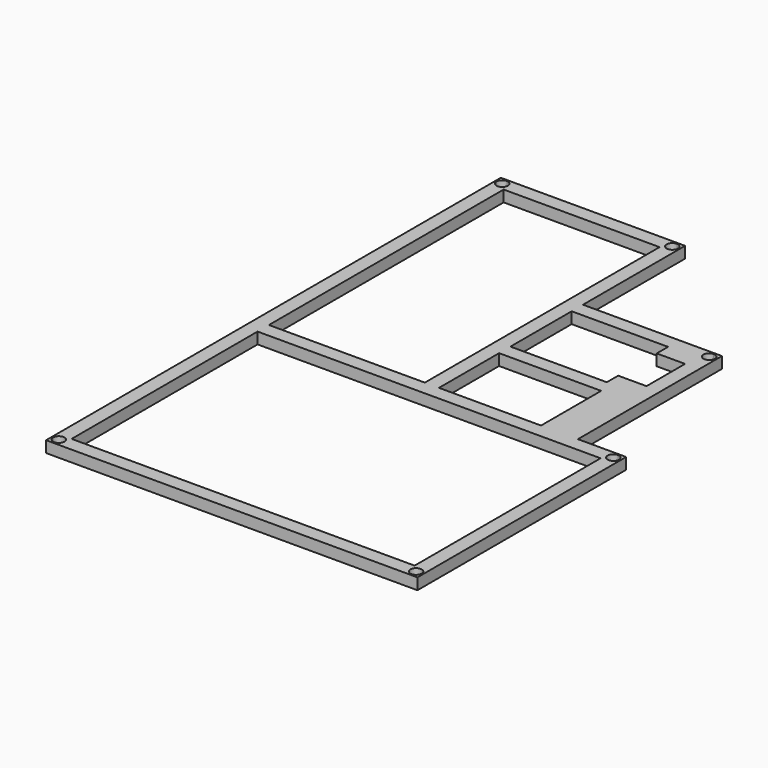
from build123d import *

# Parameters (mm, degrees)
F0_W     = 5
F0_H     = 5
F1_DEPTH = 4


with BuildPart() as f1:
    # F0 (on Top) → F1 (new body)
    with BuildSketch(Plane.XY):
        with BuildLine():
            Line((82.7990943193, -150.3260023594), (82.7990943193, -150.8260023594))
            Line((82.7990943193, -150.8260023594), (85.2990943193, -150.8260023594))
            Line((85.2990943193, -150.8260023594), (85.2990943193, -148.3260023594))
            Line((85.2990943193, -148.3260023594), (84.7990943193, -148.3260023594))
            ThreePointArc((84.7990943193, -148.3260023594), (84.2133078817, -149.7402159218), (82.7990943193, -150.3260023594))
        make_face()
        with BuildLine():
            Line((-45.2009056807, -148.3260023594), (-45.7009056807, -148.3260023594))
            Line((-45.7009056807, -148.3260023594), (-45.7009056807, -150.8260023594))
            Line((-45.7009056807, -150.8260023594), (-43.2009056807, -150.8260023594))
            Line((-43.2009056807, -150.8260023594), (-43.2009056807, -150.3260023594))
            ThreePointArc((-43.2009056807, -150.3260023594), (-44.615119243, -149.7402159218), (-45.2009056807, -148.3260023594))
        make_face()
        with BuildLine():
            Line((-43.2009056807, 49.1739976406), (-43.2009056807, 49.6739976406))
            Line((-43.2009056807, 49.6739976406), (-45.7009056807, 49.6739976406))
            Line((-45.7009056807, 49.6739976406), (-45.7009056807, 47.1739976406))
            Line((-45.7009056807, 47.1739976406), (-45.2009056807, 47.1739976406))
            ThreePointArc((-45.2009056807, 47.1739976406), (-44.615119243, 48.588211203), (-43.2009056807, 49.1739976406))
        make_face()
        with BuildLine():
            Line((85.2990943193, -61.3260023594), (85.2990943193, -58.8260023594))
            Line((85.2990943193, -58.8260023594), (82.7990943193, -58.8260023594))
            Line((82.7990943193, -58.8260023594), (82.7990943193, -59.3260023594))
            ThreePointArc((82.7990943193, -59.3260023594), (84.2133078817, -59.911788797), (84.7990943193, -61.3260023594))
            Line((84.7990943193, -61.3260023594), (85.2990943193, -61.3260023594))
        make_face()
        with BuildLine():
            Line((19.2990943193, 49.6739976406), (16.7990943193, 49.6739976406))
            Line((16.7990943193, 49.6739976406), (16.7990943193, 49.1739976406))
            ThreePointArc((16.7990943193, 49.1739976406), (18.2133078817, 48.588211203), (18.7990943193, 47.1739976406))
            Line((18.7990943193, 47.1739976406), (19.2990943193, 47.1739976406))
            Line((19.2990943193, 47.1739976406), (19.2990943193, 49.6739976406))
        make_face()
        with BuildLine():
            Line((85.2990943193, -63.8260023594), (85.2990943193, -61.3260023594))
            Line((85.2990943193, -61.3260023594), (84.7990943193, -61.3260023594))
            ThreePointArc((84.7990943193, -61.3260023594), (81.384880757, -62.7402159218), (82.7990943193, -59.3260023594))
            Line((82.7990943193, -59.3260023594), (82.7990943193, -58.8260023594))
            Line((82.7990943193, -58.8260023594), (80.2990943193, -58.8260023594))
            Line((80.2990943193, -58.8260023594), (80.2990943193, -63.8260023594))
            Line((80.2990943193, -63.8260023594), (85.2990943193, -63.8260023594))
        make_face()
        with BuildLine():
            Line((14.2990943193, 49.6739976406), (14.2990943193, 44.6739976406))
            Line((14.2990943193, 44.6739976406), (16.7990943193, 44.6739976406))
            Line((16.7990943193, 44.6739976406), (19.2990943193, 44.6739976406))
            Line((19.2990943193, 44.6739976406), (19.2990943193, 47.1739976406))
            Line((19.2990943193, 47.1739976406), (18.7990943193, 47.1739976406))
            ThreePointArc((18.7990943193, 47.1739976406), (15.384880757, 45.7597840782), (16.7990943193, 49.1739976406))
            Line((16.7990943193, 49.1739976406), (16.7990943193, 49.6739976406))
            Line((16.7990943193, 49.6739976406), (14.2990943193, 49.6739976406))
        make_face()
        with BuildLine():
            Line((-37.7009056807, -58.8260023594), (-40.7009056807, -58.8260023594))
            Line((-40.7009056807, -58.8260023594), (-40.7009056807, -52.8260023594))
            Line((-40.7009056807, -52.8260023594), (-40.7009056807, 28.4739976406))
            Line((-40.7009056807, 28.4739976406), (-40.7009056807, 44.6739976406))
            Line((-40.7009056807, 44.6739976406), (14.2990943193, 44.6739976406))
            Line((14.2990943193, 44.6739976406), (14.2990943193, 49.6739976406))
            Line((14.2990943193, 49.6739976406), (-43.2009056807, 49.6739976406))
            Line((-43.2009056807, 49.6739976406), (-43.2009056807, 49.1739976406))
            ThreePointArc((-43.2009056807, 49.1739976406), (-41.7866921183, 48.588211203), (-41.2009056807, 47.1739976406))
            ThreePointArc((-41.2009056807, 47.1739976406), (-43.2009056807, 45.1739976406), (-45.2009056807, 47.1739976406))
            Line((-45.2009056807, 47.1739976406), (-45.7009056807, 47.1739976406))
            Line((-45.7009056807, 47.1739976406), (-45.7009056807, -148.3260023594))
            Line((-45.7009056807, -148.3260023594), (-45.2009056807, -148.3260023594))
            ThreePointArc((-45.2009056807, -148.3260023594), (-43.2009056807, -146.3260023594), (-41.2009056807, -148.3260023594))
            ThreePointArc((-41.2009056807, -148.3260023594), (-41.7866921183, -149.7402159218), (-43.2009056807, -150.3260023594))
            Line((-43.2009056807, -150.3260023594), (-43.2009056807, -150.8260023594))
            Line((-43.2009056807, -150.8260023594), (82.7990943193, -150.8260023594))
            Line((82.7990943193, -150.8260023594), (82.7990943193, -150.3260023594))
            ThreePointArc((82.7990943193, -150.3260023594), (81.384880757, -146.911788797), (84.7990943193, -148.3260023594))
            Line((84.7990943193, -148.3260023594), (85.2990943193, -148.3260023594))
            Line((85.2990943193, -148.3260023594), (85.2990943193, -63.8260023594))
            Line((85.2990943193, -63.8260023594), (80.2990943193, -63.8260023594))
            Line((80.2990943193, -63.8260023594), (80.2990943193, -58.8260023594))
            Line((80.2990943193, -58.8260023594), (68.2990943193, -58.8260023594))
            Line((68.2990943193, -58.8260023594), (68.2990943193, -22.3260023594))
            Line((68.2990943193, -22.3260023594), (68.2990943193, -5.3260023594))
            Line((68.2990943193, -5.3260023594), (63.2990943193, -5.3260023594))
            Line((63.2990943193, -5.3260023594), (63.2990943193, -22.3260023594))
            Line((63.2990943193, -22.3260023594), (53.2990943193, -22.3260023594))
            Line((53.2990943193, -22.3260023594), (53.2990943193, -25.3760023594))
            Line((53.2990943193, -25.3760023594), (53.2990943193, -27.3260023594))
            Line((53.2990943193, -27.3260023594), (51.3490943193, -27.3260023594))
            Line((51.3490943193, -27.3260023594), (28.5490943193, -27.3260023594))
            Line((28.5490943193, -27.3260023594), (19.2990943193, -27.3260023594))
            Line((19.2990943193, -27.3260023594), (19.2990943193, -25.3760023594))
            Line((19.2990943193, -25.3760023594), (19.2990943193, -2.2760023594))
            Line((19.2990943193, -2.2760023594), (19.2990943193, -0.3260023594))
            Line((19.2990943193, -0.3260023594), (14.2990943193, -0.3260023594))
            Line((14.2990943193, -0.3260023594), (14.2990943193, -27.3260023594))
            Line((14.2990943193, -27.3260023594), (14.2990943193, -32.3260023594))
            Line((14.2990943193, -32.3260023594), (14.2990943193, -47.2260023594))
            Line((14.2990943193, -47.2260023594), (14.2990943193, -58.8260023594))
            Line((14.2990943193, -58.8260023594), (11.2990943193, -58.8260023594))
            Line((11.2990943193, -58.8260023594), (-37.7009056807, -58.8260023594))
        make_face()
        Polygon((76.8990943193, -63.8260023594), (80.2990943193, -63.8260023594), (80.2990943193, -67.2260023594), (80.2990943193, -142.4260023594), (80.2990943193, -145.8260023594), (76.8990943193, -145.8260023594), (-37.3009056807, -145.8260023594), (-40.7009056807, -145.8260023594), (-40.7009056807, -142.4260023594), (-40.7009056807, -67.2260023594), (-40.7009056807, -63.8260023594), (-37.3009056807, -63.8260023594), (14.2990943193, -63.8260023594), (19.2990943193, -63.8260023594), align=None, mode=Mode.SUBTRACT)
        Polygon((53.5990943193, -58.8260023594), (19.2990943193, -58.8260023594), (19.2990943193, -32.3260023594), (53.5990943193, -32.3260023594), (55.2990943193, -32.3260023594), (55.2990943193, -34.0260023594), (55.2990943193, -57.1260023594), (55.2990943193, -58.8260023594), align=None, mode=Mode.SUBTRACT)
        with Locations((16.7990943193, 2.1739976406)):
            Rectangle(F0_W, F0_H)
        Polygon((16.7990943193, 44.6739976406), (14.2990943193, 44.6739976406), (14.2990943193, 29.8739976406), (14.2990943193, 4.6739976406), (19.2990943193, 4.6739976406), (19.2990943193, 44.6739976406), align=None)
        with BuildLine():
            Line((65.7990943193, 4.6739976406), (19.2990943193, 4.6739976406))
            Line((19.2990943193, 4.6739976406), (19.2990943193, -0.3260023594))
            Line((19.2990943193, -0.3260023594), (28.5490943193, -0.3260023594))
            Line((28.5490943193, -0.3260023594), (51.3490943193, -0.3260023594))
            Line((51.3490943193, -0.3260023594), (53.2990943193, -0.3260023594))
            Line((53.2990943193, -0.3260023594), (53.2990943193, -2.2760023594))
            Line((53.2990943193, -2.2760023594), (53.2990943193, -5.3260023594))
            Line((53.2990943193, -5.3260023594), (63.2990943193, -5.3260023594))
            Line((63.2990943193, -5.3260023594), (68.2990943193, -5.3260023594))
            Line((68.2990943193, -5.3260023594), (68.2990943193, 2.1739976406))
            Line((68.2990943193, 2.1739976406), (67.7990943193, 2.1739976406))
            ThreePointArc((67.7990943193, 2.1739976406), (64.384880757, 0.7597840782), (65.7990943193, 4.1739976406))
            Line((65.7990943193, 4.1739976406), (65.7990943193, 4.6739976406))
        make_face()
        with BuildLine():
            Line((68.2990943193, 4.6739976406), (65.7990943193, 4.6739976406))
            Line((65.7990943193, 4.6739976406), (65.7990943193, 4.1739976406))
            ThreePointArc((65.7990943193, 4.1739976406), (67.2133078817, 3.588211203), (67.7990943193, 2.1739976406))
            Line((67.7990943193, 2.1739976406), (68.2990943193, 2.1739976406))
            Line((68.2990943193, 2.1739976406), (68.2990943193, 4.6739976406))
        make_face()
    extrude(amount=F1_DEPTH)


solid = f1.part
